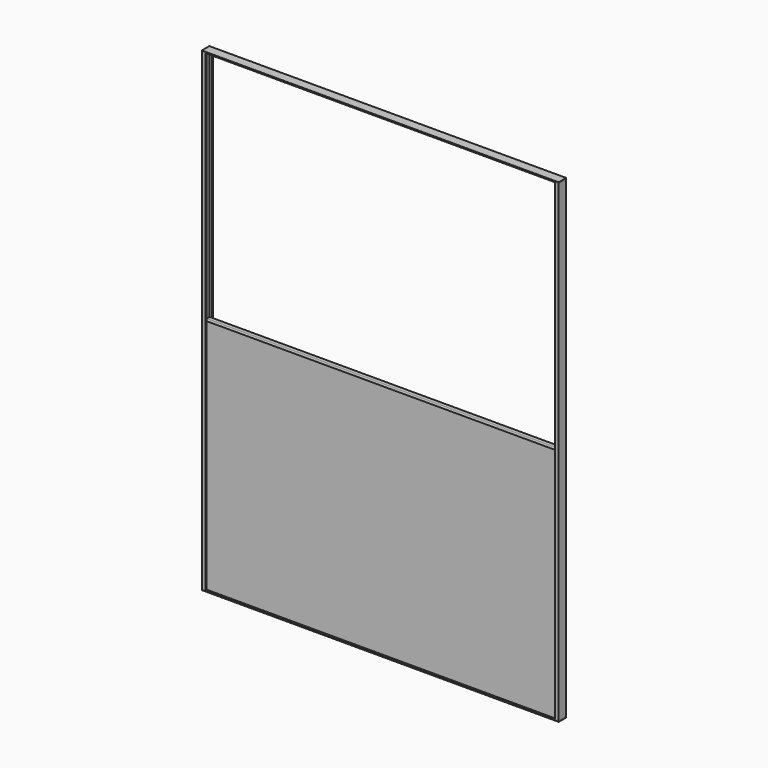
from build123d import *

# Parameters (mm, degrees)
F1_DEPTH  = 2000
F2_W      = 1500
F2_H      = 1000
F3_DEPTH  = 15
F4_DEPTH  = 15
F5_W      = 1510
F5_H      = 40
F6_DEPTH  = 5
F7_W      = 1510
F7_H      = 40
F8_DEPTH  = 5
F10_DEPTH = 15
F11_W     = 1200
F11_H     = 800
F12_DEPTH = 15


with BuildPart() as f1:
    # F0 (on Top) → F1 (new body)
    with BuildSketch(Plane.XY):
        Polygon((-750, -15), (-750, 0), (-750, 15), (-740, 15), (-740, 20), (-755, 20), (-755, 0), (-755, -20), (-740, -20), (-740, -15), align=None)
        Polygon((750, -15), (740, -15), (740, -20), (755, -20), (755, 0), (755, 20), (740, 20), (740, 15), (750, 15), (750, 0), align=None)
    extrude(amount=F1_DEPTH)


with BuildPart() as f3:
    # F2 (on Front) → F3 (new body)
    with BuildSketch(Plane.XZ):
        with Locations((0, 500)):
            Rectangle(F2_W, F2_H)
        with Locations((0, 500)):
            Rectangle(F2_W, F2_H)
    extrude(amount=F3_DEPTH)


with BuildPart() as f4:
    # F2 (on Front) → F4 (new body)
    with BuildSketch(Plane.XZ):
        with Locations((0, 500)):
            Rectangle(F2_W, F2_H)
    extrude(amount=-F4_DEPTH)

    # F9 (on face) → F10 (cut)
    with BuildSketch(Plane(origin=(0, 15, 0), x_dir=(-1, 0, 0), z_dir=(0, 1, 0))):
        Polygon((-600, 100), (0, 100), (600, 100), (600, 900), (0, 900), (-600, 900), align=None)
    extrude(amount=-F10_DEPTH, mode=Mode.SUBTRACT)


with BuildPart() as f6:
    # F5 (on face) → F6 (new body)
    with BuildSketch(Plane.XY.offset(2000)):
        Rectangle(F5_W, F5_H)
    extrude(amount=F6_DEPTH)


with BuildPart() as f8:
    # F7 (on face) → F8 (new body)
    with BuildSketch(Plane.XY):
        Rectangle(F7_W, F7_H)
    extrude(amount=-F8_DEPTH)


with BuildPart() as f12:
    # F11 (on face) → F12 (new body)
    with BuildSketch(Plane(origin=(0, 15, 0), x_dir=(-1, 0, 0), z_dir=(0, 1, 0))):
        with Locations((0, 500)):
            Rectangle(F11_W, F11_H)
    extrude(amount=-F12_DEPTH)


solid = Compound([f1.part, f3.part, f4.part, f6.part, f8.part, f12.part])
